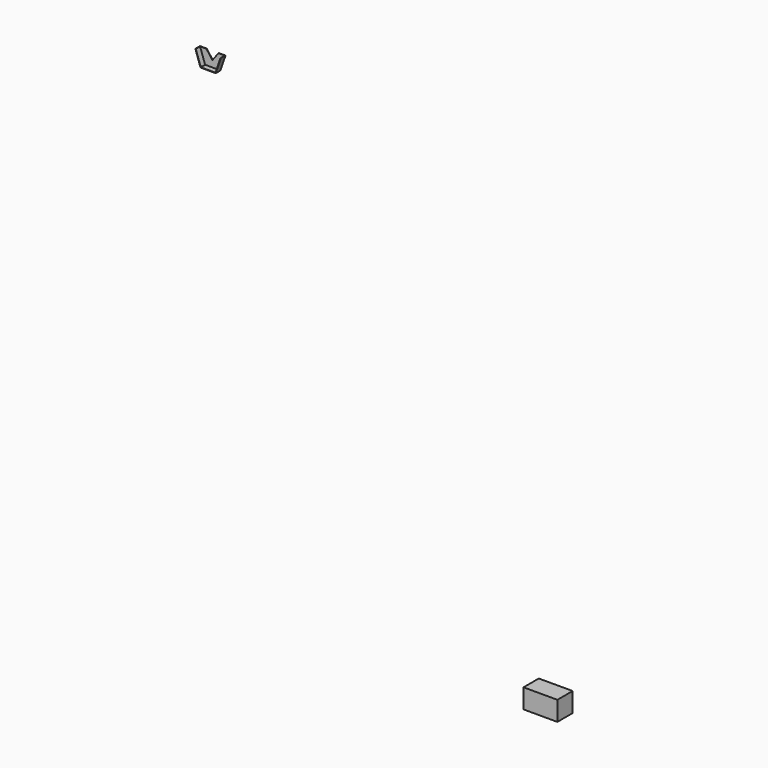
from build123d import *

# Parameters (mm, degrees)
F0_W     = 45.042336
F0_H     = 25.902518
F1_DEPTH = 25.4
F3_DEPTH = 7.7
F4_T     = -0.5293


with BuildPart() as f1:
    # F0 (on Front) → F1 (new body)
    with BuildSketch(Plane.XZ):
        with Locations((-22.521168, 16.117122)):
            Rectangle(F0_W, F0_H)
    extrude(amount=F1_DEPTH)


with BuildPart() as f3:
    # F2 (on Front) → F3 (new body)
    with BuildSketch(Plane.XZ):
        Polygon((-495.763165, 623.071543), (-488.863165, 603.237481), (-468.663165, 603.237481), (-461.763165, 623.071543), (-470.763165, 623.071543), (-478.763165, 612.321659), (-486.763165, 623.071543), align=None)
    extrude(amount=F3_DEPTH)

    # F4
    f4_openings = [f3.faces().sort_by_distance(p)[0] for p in [
        (-466.263165, -3.85, 623.071543),
        (-474.763165, -3.85, 617.696601),
        (-465.584933, -7.7, 613.283845),
        (-491.263165, -3.85, 623.071543),
        (-482.763165, -3.85, 617.696601),
    ]]
    offset(amount=F4_T, openings=f4_openings)


solid = Compound([f1.part, f3.part])
